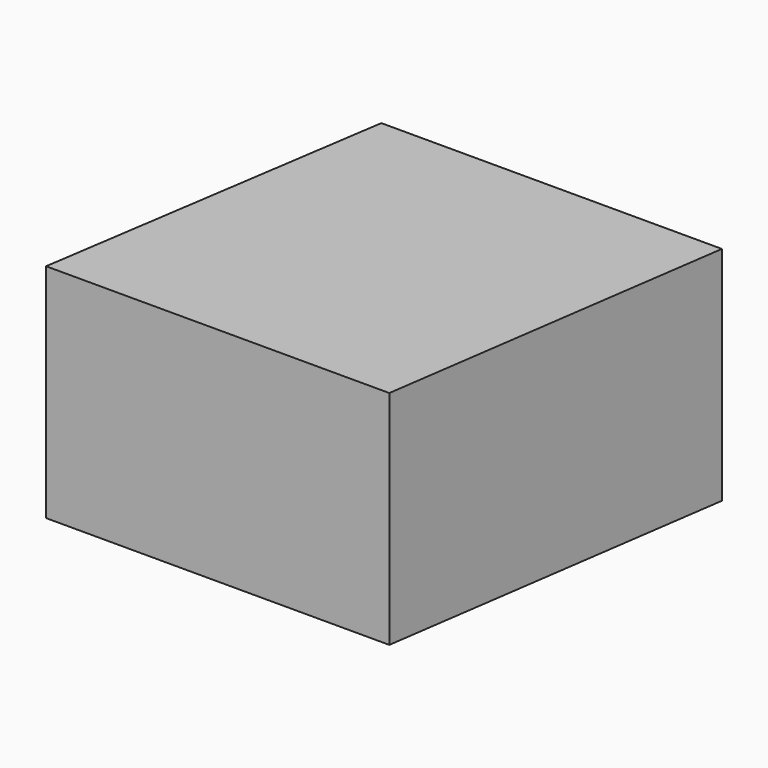
from build123d import *

# Parameters (mm, degrees)
F0_W     = 8.4000006318
F0_H     = 7.7999997884
F1_DEPTH = 25


with BuildPart() as f1:
    # F0 (on Top) → F1 (new body)
    with BuildSketch(Plane.XY):
        Polygon((17.7000015974, 39.7500023246), (-20.7000002265, 39.7500023246), (-26.70000121, 0), (11.999999173, 0), align=None)
        with Locations((-4.2000003159, 20.5500004813)):
            Rectangle(F0_W, F0_H, mode=Mode.SUBTRACT)
        with Locations((-4.2000003159, 20.5500004813)):
            Rectangle(F0_W, F0_H)
    extrude(amount=F1_DEPTH)


solid = f1.part
